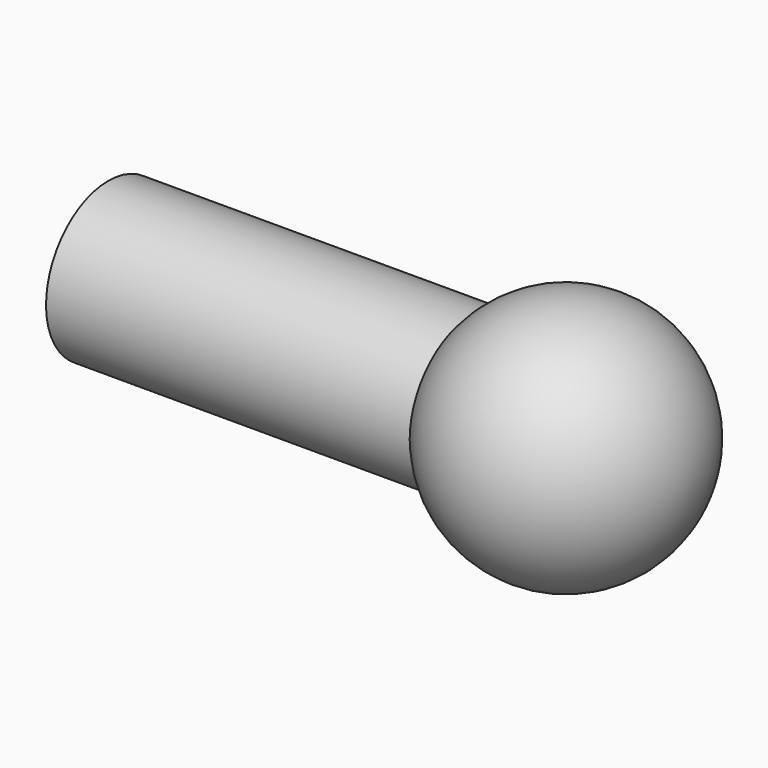
from build123d import *


with BuildPart() as f1:
    # F0 (on Front) → F1 (revolve)
    with BuildSketch(Plane.XZ):
        Polygon((0, 0), (0, 2.55), (-12, 2.55), (-12, 0), (-1, 0), align=None)
    revolve(axis=Axis((-6, 0, 0), (1, 0, 0)))

    # F0 (on Front) → F2 (revolve)
    with BuildSketch(Plane.XZ):
        with BuildLine():
            Line((7, 0), (0, 0))
            Line((0, 0), (-1, 0))
            ThreePointArc((-1, 0), (3, -4), (7, 0))
        make_face()
    revolve(axis=Axis((3, 0, 0), (1, 0, 0)))


solid = f1.part
